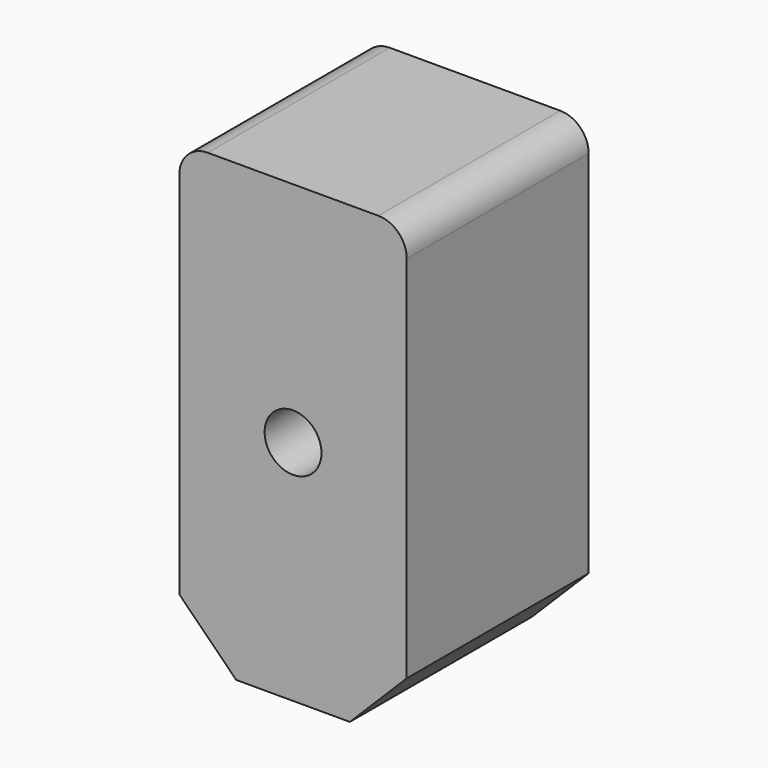
from build123d import *

# Parameters (mm, degrees)
F0_W     = 200
F0_H     = 400
F1_DEPTH = 200
F2_R     = 25
F3_DEPTH = 200.001
F4_SIZE  = 50
F5_SIZE  = 50
F6_R     = 25
F7_R     = 25


with BuildPart() as f1:
    # F0 (on Front) → F1 (new body)
    with BuildSketch(Plane.XZ):
        Rectangle(F0_W, F0_H)
    extrude(amount=F1_DEPTH)

    # F2 (on face) → F3 (cut, through all)
    with BuildSketch(Plane.XZ.offset(200)):
        Circle(F2_R)
    extrude(amount=-F3_DEPTH, mode=Mode.SUBTRACT)

    # F4
    f4_edges = [f1.edges().sort_by_distance(p)[0] for p in [
        (100, -100, -200),
    ]]
    chamfer(f4_edges, length=F4_SIZE)

    # F5
    f5_edges = [f1.edges().sort_by_distance(p)[0] for p in [
        (-100, -100, -200),
    ]]
    chamfer(f5_edges, length=F5_SIZE)

    # F6
    f6_edges = [f1.edges().sort_by_distance(p)[0] for p in [
        (100, -100, 200),
    ]]
    fillet(f6_edges, radius=F6_R)

    # F7
    f7_edges = [f1.edges().sort_by_distance(p)[0] for p in [
        (-100, -100, 200),
    ]]
    fillet(f7_edges, radius=F7_R)


solid = f1.part
